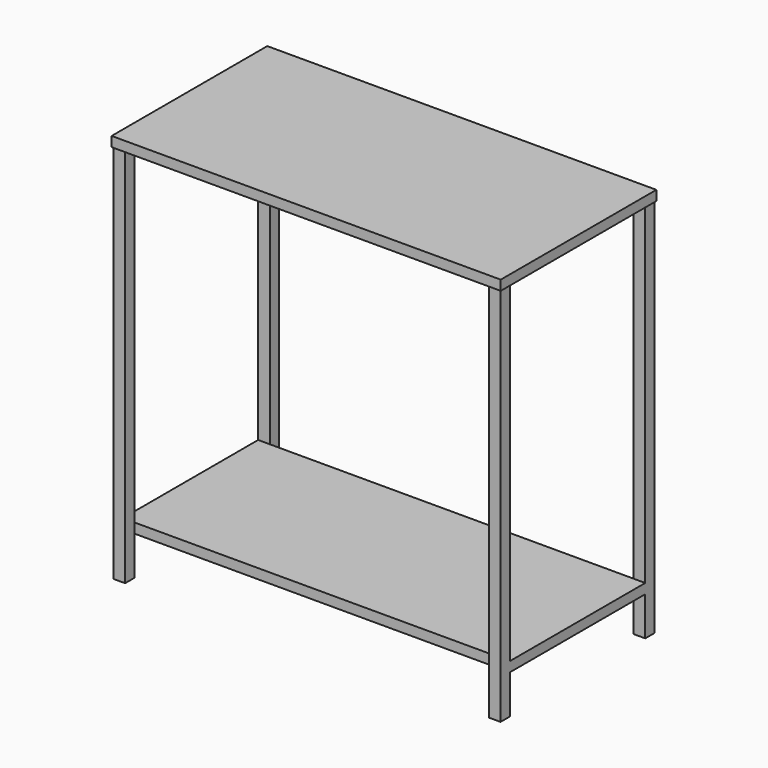
from build123d import *

# Parameters (mm, degrees)
F0_W     = 1000
F0_H     = 500
F1_DEPTH = 25.4
F2_T     = -2.54
F3_W     = 30
F3_H     = 30
F4_DEPTH = 1000
F6_W     = 994.92
F6_H     = 434.92
F7_DEPTH = 25.4


with BuildPart() as f1:
    # F0 (on Top) → F1 (new body)
    with BuildSketch(Plane.XY):
        Rectangle(F0_W, F0_H)
    extrude(amount=F1_DEPTH)

    # F2
    f2_openings = [f1.faces().sort_by_distance(p)[0] for p in [
        (0, 0, 0),
    ]]
    offset(amount=F2_T, openings=f2_openings)

    # F3 (on face) → F4 (join)
    with BuildSketch(Plane(origin=(0, 0, 22.86), x_dir=(1, 0, 0), z_dir=(0, 0, -1))):
        with Locations((-482.46, 232.46)):
            Rectangle(F3_W, F3_H)
        with Locations((-482.46, -232.46)):
            Rectangle(F3_W, F3_H)
        with Locations((482.46, 232.46)):
            Rectangle(F3_W, F3_H)
        with Locations((482.46, -232.46)):
            Rectangle(F3_W, F3_H)
    extrude(amount=F4_DEPTH)

    # F6 (on offset) → F7 (join)
    with BuildSketch(Plane(origin=(0, 0, -877.14), x_dir=(1, 0, 0), z_dir=(0, 0, -1))):
        Rectangle(F6_W, F6_H)
    extrude(amount=-F7_DEPTH)


solid = f1.part
